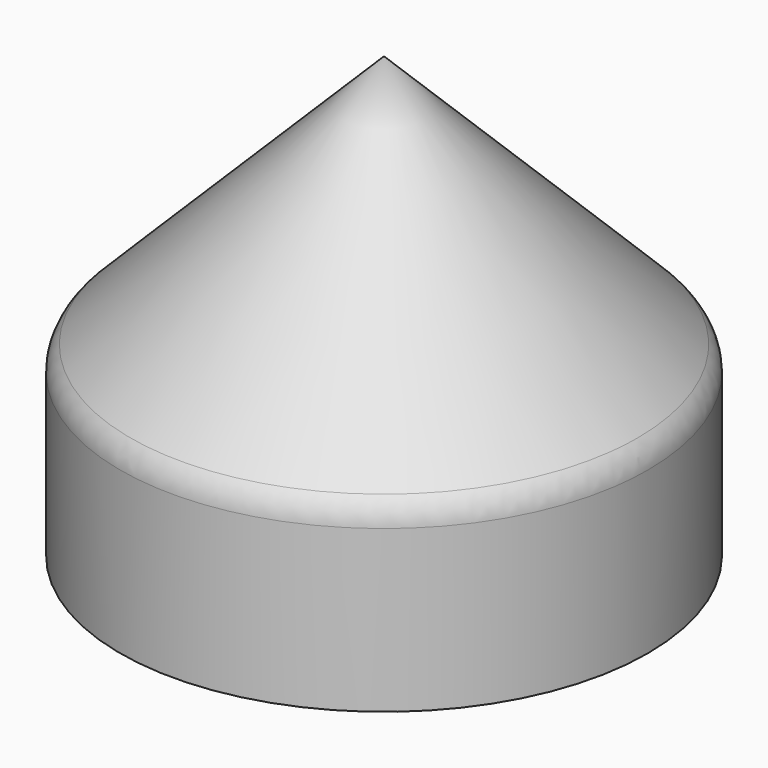
from build123d import *

# Parameters (mm, degrees)
F0_R     = 38.1
F1_DEPTH = 25.4
F2_R     = 38.1
F3_DEPTH = 38.1
F3_TAPER = 45
F4_R     = 5.08


with BuildPart() as f1:
    # F0 (on Top) → F1 (new body)
    with BuildSketch(Plane.XY):
        Circle(F0_R)
    extrude(amount=F1_DEPTH)

    # F2 (on face) → F3 (join)
    with BuildSketch(Plane.XY.offset(25.4)):
        Circle(F2_R)
    extrude(amount=F3_DEPTH, taper=F3_TAPER)

    # F4
    f4_edges = [f1.edges().sort_by_distance(p)[0] for p in [
        (-38.1, 0, 25.4),
    ]]
    fillet(f4_edges, radius=F4_R)


solid = f1.part
